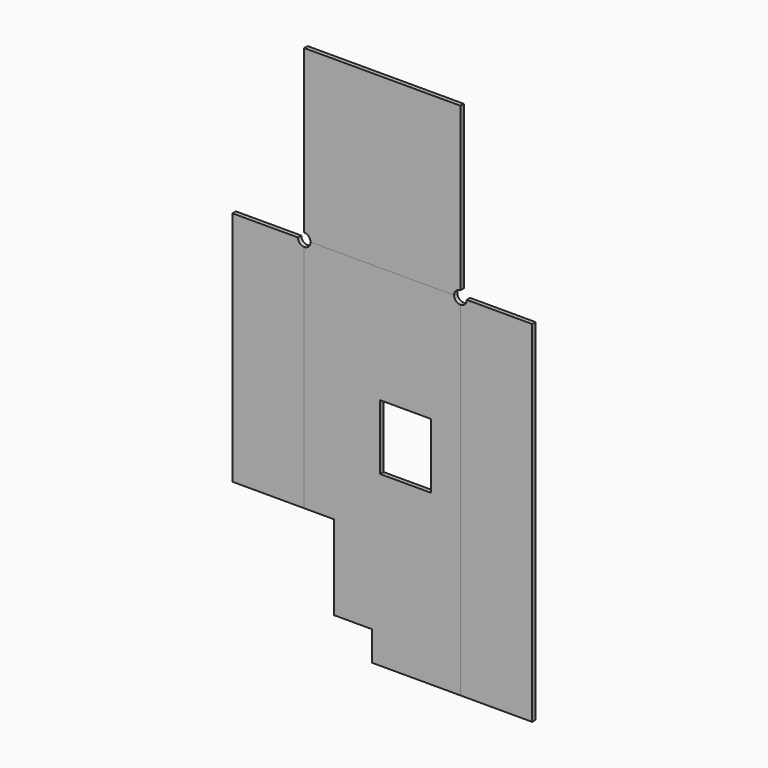
from build123d import *

# Parameters (mm, degrees)
F1_DEPTH      = 5
F2_W          = 60
F2_H          = 77
F3_DEPTH      = 25
F3_DEPTH_BACK = 25
F5_DEPTH      = 5


with BuildPart() as f1:
    # F0 (on Front) → F1 (new body)
    with BuildSketch(Plane.XZ):
        with BuildLine():
            Line((177.5, 0), (7.5, 0))
            ThreePointArc((7.5, 0), (5.3033008589, -5.3033008589), (0, -7.5))
            Line((0, -7.5), (0, -215))
            Line((0, -215), (0, -280))
            Line((0, -280), (35, -280))
            Line((35, -280), (35, -380))
            Line((35, -380), (80, -380))
            Line((80, -380), (80, -415))
            Line((80, -415), (185, -415))
            Line((185, -415), (185, -7.5))
            ThreePointArc((185, -7.5), (179.6966991411, -5.3033008589), (177.5, 0))
        make_face()
    extrude(amount=F1_DEPTH)

    # F2 (on Front) → F3 (cut, two sides)
    with BuildSketch(Plane.XZ) as f3_sk:
        with Locations((120, -176.5)):
            Rectangle(F2_W, F2_H)
    extrude(amount=-F3_DEPTH, mode=Mode.SUBTRACT)
    extrude(f3_sk.sketch, amount=F3_DEPTH_BACK, mode=Mode.SUBTRACT)


with BuildPart() as f5:
    # F4 (on Front) → F5 (new body)
    with BuildSketch(Plane.XZ):
        with BuildLine():
            ThreePointArc((0, -7.5), (-5.3033008589, -5.3033008589), (-7.5, 0))
            Line((-7.5, 0), (-85, 0))
            Line((-85, 0), (-85, -280))
            Line((-85, -280), (0, -280))
            Line((0, -280), (0, -7.5))
        make_face()
    extrude(amount=F5_DEPTH)


with BuildPart() as f5b:
    # F4 (on Front) → F5, piece 2 (new body)
    with BuildSketch(Plane.XZ):
        with BuildLine():
            ThreePointArc((192.5, 0), (190.3033008589, -5.3033008589), (185, -7.5))
            Line((185, -7.5), (185, -415))
            Line((185, -415), (270, -415))
            Line((270, -415), (270, 0))
            Line((270, 0), (192.5, 0))
        make_face()
    extrude(amount=F5_DEPTH)


with BuildPart() as f5c:
    # F4 (on Front) → F5, piece 3 (new body)
    with BuildSketch(Plane.XZ):
        with BuildLine():
            ThreePointArc((0, 7.5), (5.3033008589, 5.3033008589), (7.5, 0))
            Line((7.5, 0), (177.5, 0))
            ThreePointArc((177.5, 0), (179.6966991411, 5.3033008589), (185, 7.5))
            Line((185, 7.5), (185, 200))
            Line((185, 200), (0, 200))
            Line((0, 200), (0, 7.5))
        make_face()
    extrude(amount=F5_DEPTH)


solid = Compound([f1.part, f5.part, f5b.part, f5c.part])
